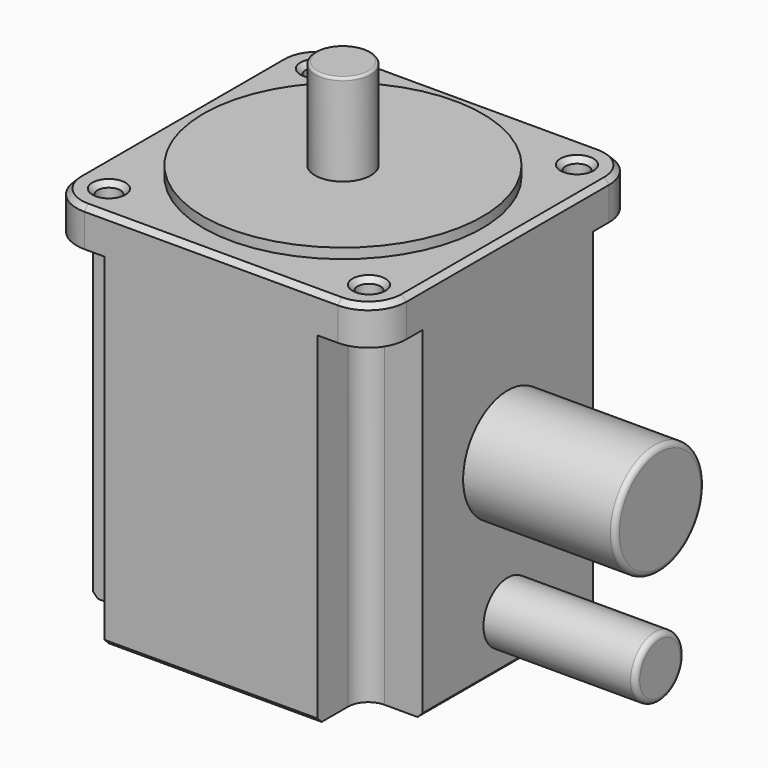
from build123d import *

# Parameters (mm, degrees)
PAD_DEPTH            = 150
SKETCH001_R          = 11
PAD001_DEPTH         = 40
FILLET_R             = 1
SKETCH002_R          = 22
SKETCH002_R_2        = 12
PAD002_DEPTH         = 60
SKETCH003_R          = 4.5
POCKET_DEPTH         = 25
FILLET001_R          = 2
CHAMFER_SIZE         = 2
SKETCH004_R          = 55
PAD003_DEPTH         = 4
POCKET001_DEPTH      = 135
BODY_PLACEMENT_ANGLE = 180


with BuildPart() as part:
    # Sketch → Pad (new body)
    with BuildSketch(Plane.XY):
        with BuildLine():
            Line((-50, 65), (50, 65))
            ThreePointArc((65, 50), (60.606602, 60.606602), (50, 65))
            Line((65, 50), (65, -50))
            ThreePointArc((50, -65), (60.606602, -60.606602), (65, -50))
            Line((50, -65), (-50, -65))
            ThreePointArc((-65, -50), (-60.606602, -60.606602), (-50, -65))
            Line((-65, -50), (-65, 50))
            ThreePointArc((-50, 65), (-60.606602, 60.606602), (-65, 50))
        make_face()
    extrude(amount=PAD_DEPTH)

    # Sketch001 (on Face10 of Pad) → Pad001 (join)
    with BuildSketch(Plane.XY.offset(150)):
        Circle(SKETCH001_R)
    extrude(amount=PAD001_DEPTH)

    # Fillet
    fillet_edges = [part.edges().sort_by_distance(p)[0] for p in [
        (-11, 0, 190),
    ]]
    fillet(fillet_edges, radius=FILLET_R)

    # Sketch002 (on Face8 of Fillet) → Pad002 (join)
    with BuildSketch(Plane(origin=(-65, 0, 0), x_dir=(0, -1, 0), z_dir=(-1, 0, 0))):
        with Locations((0, 75)):
            Circle(SKETCH002_R)
        with Locations((0, 20)):
            Circle(SKETCH002_R_2)
    extrude(amount=PAD002_DEPTH)

    # Sketch003 (on Face3 of Pad002) → Pocket (cut)
    with BuildSketch(Plane.XY.offset(150)):
        with Locations((-51.265242, 51.265242)):
            Circle(SKETCH003_R)
        with Locations((51.265242, 51.265242)):
            Circle(SKETCH003_R)
        with Locations((51.265242, -51.265242)):
            Circle(SKETCH003_R)
        with Locations((-51.265242, -51.265242)):
            Circle(SKETCH003_R)
    extrude(amount=-POCKET_DEPTH, mode=Mode.SUBTRACT)

    # Fillet001
    fillet001_edges = [part.edges().sort_by_distance(p)[0] for p in [
        (-125, 12, 20),
        (-125, 22, 75),
    ]]
    fillet(fillet001_edges, radius=FILLET001_R)

    # Chamfer
    chamfer_edges = [part.edges().sort_by_distance(p)[0] for p in [
        (-65, 0, 150),
        (0, 65, 150),
        (65, 0, 150),
        (0, -65, 150),
        (60.606602, -60.606602, 150),
        (-60.606602, -60.606602, 150),
        (-60.606602, 60.606602, 150),
        (60.606602, 60.606602, 150),
        (-55.765242, -51.265242, 150),
        (46.765242, -51.265242, 150),
        (-55.765242, 51.265242, 150),
        (-11, 0, 150),
        (46.765242, 51.265242, 150),
        (-65, 0, 0),
        (-60.606602, 60.606602, 0),
        (-60.606602, -60.606602, 0),
        (0, 65, 0),
        (60.606602, 60.606602, 0),
        (65, 0, 0),
        (60.606602, -60.606602, 0),
        (0, -65, 0),
    ]]
    chamfer(chamfer_edges, length=CHAMFER_SIZE)

    # Sketch004 (on Face13 of Chamfer) → Pad003 (join)
    with BuildSketch(Plane.XY.offset(150)):
        Circle(SKETCH004_R)
    extrude(amount=PAD003_DEPTH)

    # Sketch005 (on Face11 of Pad003) → Pocket001 (cut)
    with BuildSketch(Plane(origin=(0, 0, 0), x_dir=(1, 0, 0), z_dir=(0, 0, -1))):
        with BuildLine():
            ThreePointArc((-42, -50), (-44.343146, -44.343146), (-50, -42))
            Line((-50, -42), (-65, -42))
            Line((-65, -50), (-65, -42))
            ThreePointArc((-65, -50), (-60.606602, -60.606602), (-50, -65))
            Line((-50, -65), (-42, -65))
            Line((-42, -50), (-42, -65))
        make_face()
        with BuildLine():
            ThreePointArc((50, -42), (44.343146, -44.343146), (42, -50))
            Line((42, -50), (42, -65))
            Line((50, -65), (42, -65))
            ThreePointArc((50, -65), (60.606602, -60.606602), (65, -50))
            Line((65, -50), (65, -42))
            Line((50, -42), (65, -42))
        make_face()
        with BuildLine():
            ThreePointArc((-50, 42), (-44.343146, 44.343146), (-42, 50))
            Line((-42, 50), (-42, 65))
            Line((-50, 65), (-42, 65))
            ThreePointArc((-50, 65), (-60.606602, 60.606602), (-65, 50))
            Line((-65, 50), (-65, 42))
            Line((-50, 42), (-65, 42))
        make_face()
        with BuildLine():
            ThreePointArc((42, 50), (44.343146, 44.343146), (50, 42))
            Line((50, 42), (65, 42))
            Line((65, 50), (65, 42))
            ThreePointArc((65, 50), (60.606602, 60.606602), (50, 65))
            Line((50, 65), (42, 65))
            Line((42, 50), (42, 65))
        make_face()
    extrude(amount=-POCKET001_DEPTH, mode=Mode.SUBTRACT)


with BuildPart() as part_1:
    # Body placement: moved
    add(part.part.rotate(Axis((0, 0, 0), (0, 0, 1)), BODY_PLACEMENT_ANGLE))


solid = part_1.part
